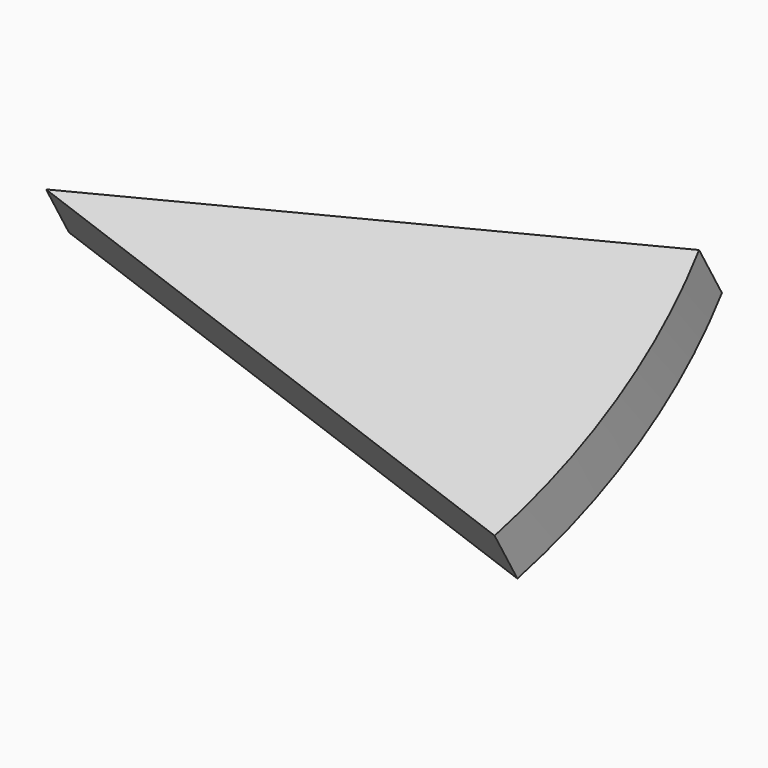
from build123d import *

# Parameters (mm, degrees)
F1_DEPTH = 10
F3_ANGLE = 30


with BuildPart() as f1:
    # F0 (on Top) → F1 (new body)
    with BuildSketch(Plane.XY):
        with BuildLine():
            Line((96.592583, 25.881905), (0, 0))
            Line((0, 0), (96.592583, -25.881905))
            ThreePointArc((96.592583, -25.881905), (100, 0), (96.592583, 25.881905))
        make_face()
    extrude(amount=F1_DEPTH)


with BuildPart() as f1_1:
    # F3: moved
    add(f1.part.rotate(Axis((60.395431, 0, 0), (1, 0, 0)), F3_ANGLE))


solid = f1_1.part
